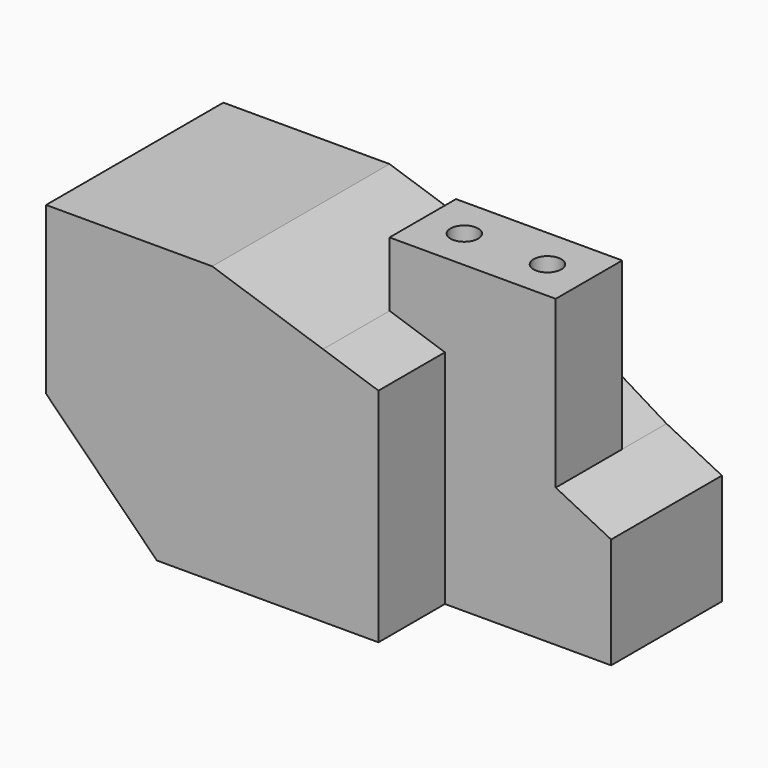
from build123d import *

# Parameters (mm, degrees)
F1_DEPTH = 25.4
F3_DEPTH = 19.05
F5_DEPTH = 12.7
F6_R     = 3.175
F7_DEPTH = 69.851


with BuildPart() as f1:
    # F0 (on Front) → F1 (new body, symmetric)
    with BuildSketch(Plane.XZ):
        Polygon((0, 63.5), (0, 25.4), (25.4, 0), (76.2, 0), (76.2, 50.8), (63.5, 55.033333), (38.1, 63.5), align=None)
        Polygon((76.2, 50.8), (76.2, 0), (114.3, 0), (114.3, 25.4), (101.6, 31.75), (101.6, 69.85), (76.2, 69.85), align=None)
        Polygon((63.5, 55.033333), (76.2, 50.8), (76.2, 69.85), (63.5, 69.85), align=None)
    extrude(amount=F1_DEPTH, both=True)

    # F2 (on face) → F3 (cut)
    with BuildSketch(Plane.XZ.offset(25.4)):
        Polygon((76.2, 0), (114.3, 0), (114.3, 25.4), (101.6, 31.75), (101.6, 69.85), (63.5, 69.85), (63.5, 55.033333), (76.2, 50.8), align=None)
    extrude(amount=-F3_DEPTH, mode=Mode.SUBTRACT)

    # F4 (on face) → F5 (cut)
    with BuildSketch(Plane(origin=(0, 25.4, 0), x_dir=(-1, 0, 0), z_dir=(0, 1, 0))):
        Polygon((-101.6, 69.85), (-101.6, 31.75), (-63.5, 55.033333), (-63.5, 69.85), align=None)
    extrude(amount=-F5_DEPTH, mode=Mode.SUBTRACT)

    # F6 (on face) → F7 (cut, through all)
    with BuildSketch(Plane.XY.offset(69.85)):
        with Locations((73.025, 3.175)):
            Circle(F6_R)
        with Locations((92.075, 3.175)):
            Circle(F6_R)
    extrude(amount=-F7_DEPTH, mode=Mode.SUBTRACT)


solid = f1.part
